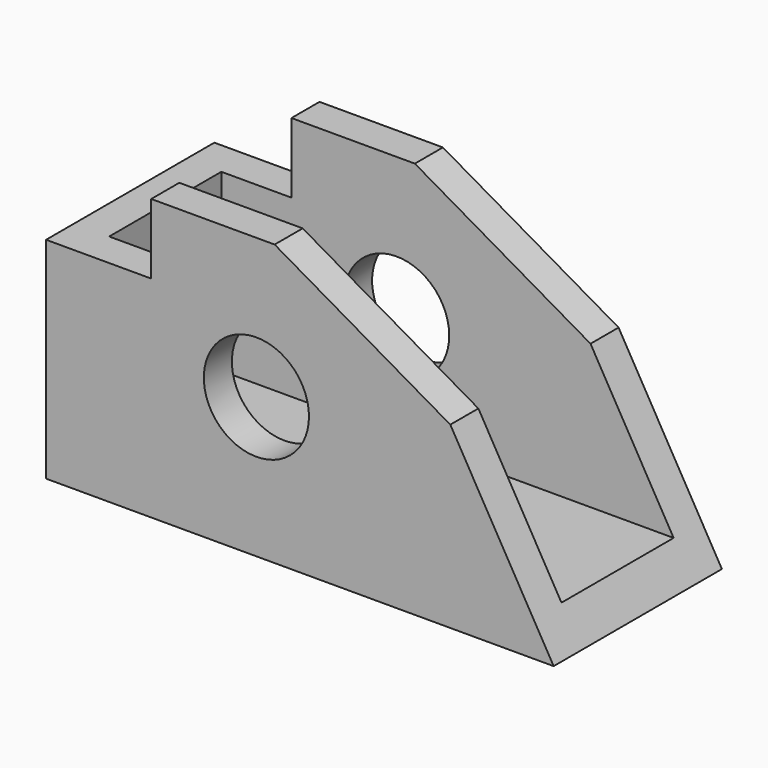
from build123d import *

# Parameters (mm, degrees)
F0_R     = 9.525
F1_DEPTH = 38.1
F2_T     = -6.35
F3_DEPTH = 38.101


with BuildPart() as f1:
    # F0 (on Front) → F1 (new body)
    with BuildSketch(Plane.XZ):
        Polygon((0, 25.4), (0, 0), (38.1, 0), (41.208155, 0), (91.948, 0), (73.226909, 32.42588), (41.402, 50.8), (19.05, 50.8), (19.05, 38.1), (0, 38.1), align=None)
        with Locations((38.1, 25.4)):
            Circle(F0_R, mode=Mode.SUBTRACT)
        with Locations((38.1, 25.4)):
            Circle(F0_R)
    extrude(amount=F1_DEPTH)

    # F2
    f2_openings = [f1.faces().sort_by_distance(p)[0] for p in [
        (82.587455, -19.05, 16.21294),
        (19.05, -19.05, 44.45),
        (9.525, -19.05, 38.1),
        (30.226, -19.05, 50.8),
        (57.314455, -19.05, 41.61294),
    ]]
    offset(amount=F2_T, openings=f2_openings)

    # F0 (on Front) → F3 (cut, through all)
    with BuildSketch(Plane.XZ):
        with Locations((38.1, 25.4)):
            Circle(F0_R)
    extrude(amount=F3_DEPTH, mode=Mode.SUBTRACT)


solid = f1.part
